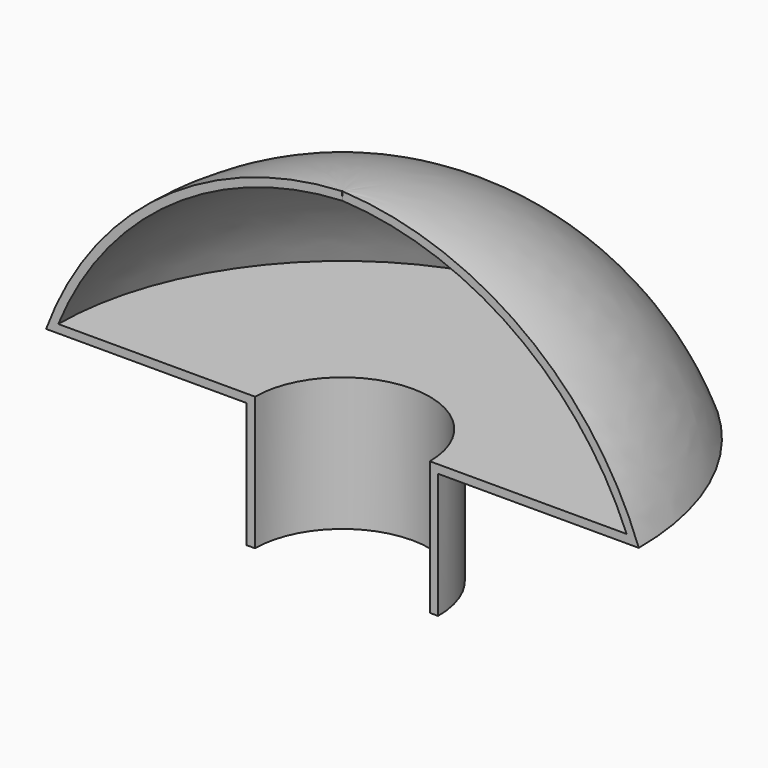
from build123d import *

# Parameters (mm, degrees)
F1_ANGLE = 180


with BuildPart() as f1:
    # F0 (on Front) → F1 (revolve)
    with BuildSketch(Plane.XZ):
        with BuildLine():
            ThreePointArc((-34.095638, 0), (-20.558778, 17.018454), (0, 24.104428))
            Line((0, 24.104428), (-0.046644, 25.103341))
            ThreePointArc((-0.046644, 25.103341), (-21.735137, 17.403096), (-35.555795, -1))
            Line((-35.555795, -1), (-11.48195, -1))
            Line((-11.48195, -1), (-11.48195, -16.015298))
            Line((-11.48195, -16.015298), (-10.48195, -16.015298))
            Line((-10.48195, -16.015298), (-10.48195, 0))
            Line((-10.48195, 0), (-34.095638, 0))
        make_face()
    revolve(axis=Axis((0, 0, 5.296746), (0, 0, -1)), revolution_arc=F1_ANGLE)


solid = f1.part
